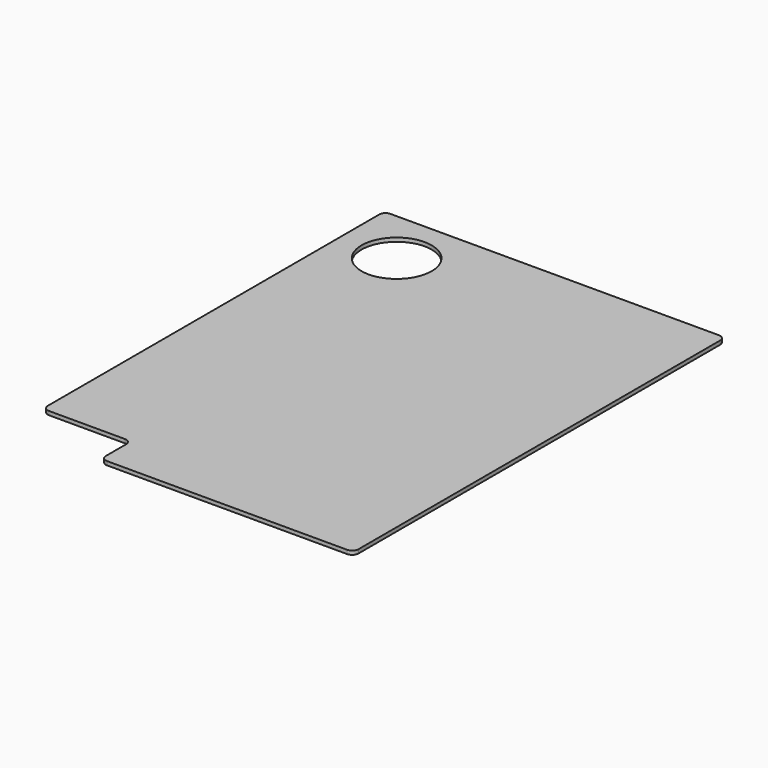
from build123d import *

# Parameters (mm, degrees)
PAD012_DEPTH             = 3
SKETCH090_R              = 27.75
POCKET039_DEPTH          = 0.001
POCKET039_DEPTH_BACK     = 3.001
POCKET040_DEPTH          = 0.001
POCKET040_DEPTH_BACK     = 3.001
BODY081_PLACEMENT_ANGLE  = 90
CLONE028_PLACEMENT_ANGLE = 180


with BuildPart() as part:
    # Sketch089 → Pad012 (new body)
    with BuildSketch(Plane.XY):
        with BuildLine():
            ThreePointArc((-184, -130), (-182.535534, -133.535534), (-179, -135))
            Line((179, -135), (-179, -135))
            ThreePointArc((179, -135), (182.535534, -133.535534), (184, -130))
            Line((184, 130), (184, -130))
            ThreePointArc((184, 130), (182.535534, 133.535534), (179, 135))
            Line((-179, 135), (179, 135))
            ThreePointArc((-179, 135), (-182.535534, 133.535534), (-184, 130))
            Line((-184, -130), (-184, 130))
        make_face()
    extrude(amount=PAD012_DEPTH)

    # Sketch090 → Pocket039 (cut, two sides)
    with BuildSketch(Plane(origin=(-140, 90, 0), x_dir=(1, 0, 0), z_dir=(0, 0, 1))) as pocket039_sk:
        Circle(SKETCH090_R)
    extrude(amount=-POCKET039_DEPTH, mode=Mode.SUBTRACT)
    extrude(pocket039_sk.sketch, amount=POCKET039_DEPTH_BACK, mode=Mode.SUBTRACT)

    # Sketch091 → Pocket040 (cut, two sides)
    with BuildSketch(Plane.XY) as pocket040_sk:
        with BuildLine():
            Line((184, 135), (149, 135))
            ThreePointArc((154, 130), (152.535534, 133.535534), (149, 135))
            Line((154, 130), (154, 70))
            ThreePointArc((154, 70), (155.464466, 66.464466), (159, 65))
            Line((159, 65), (179, 65))
            ThreePointArc((184, 60), (182.535534, 63.535534), (179, 65))
            Line((184, 60), (184, 135))
        make_face()
    extrude(amount=-POCKET040_DEPTH, mode=Mode.SUBTRACT)
    extrude(pocket040_sk.sketch, amount=POCKET040_DEPTH_BACK, mode=Mode.SUBTRACT)


with BuildPart() as part_1:
    # Body081 placement: moved
    add(part.part.moved(Location((1341, 1390, 0))).rotate(Axis((1341, 1390, 0), (0, 0, 1)), BODY081_PLACEMENT_ANGLE))


with BuildPart() as part_2:
    # Clone028 placement: moved
    add(part_1.part.moved(Location((-1206, 1574, 0))).rotate(Axis((-1206, 1574, 0), (1, 0, 0)), CLONE028_PLACEMENT_ANGLE))


solid = part_2.part
